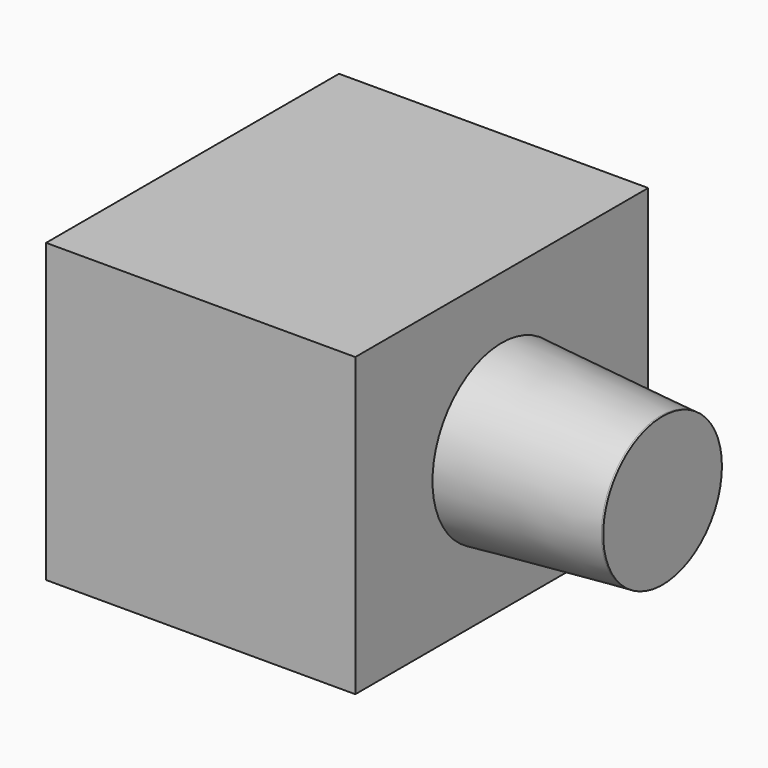
from build123d import *

# Parameters (mm, degrees)
SKETCH003_W   = 7.4
SKETCH003_H   = 6
PAD003_DEPTH  = 6.25
SKETCH004_R   = 1.5
PAD004_DEPTH  = 3.25
CHAMFER_ANGLE = 85.55
CHAMFER_SIZE  = 0.25


with BuildPart() as part:
    # Sketch003 → Pad003 (new body)
    with BuildSketch(Plane.YZ):
        with Locations((-4.647178, 8.71105)):
            Rectangle(SKETCH003_W, SKETCH003_H)
    extrude(amount=PAD003_DEPTH)

    # Sketch004 (on Face6 of Pad003) → Pad004 (join)
    with BuildSketch(Plane.YZ.offset(6.25)):
        with Locations((-4.647178, 8.71105)):
            Circle(SKETCH004_R)
    extrude(amount=PAD004_DEPTH)

    # Chamfer
    chamfer_edges = [part.edges().sort_by_distance(p)[0] for p in [
        (6.25, -6.147178, 8.71105),
    ]]
    chamfer_side = part.faces().sort_by_distance((6.25, -8.25191, 8.71105))[0]
    chamfer(chamfer_edges, length=CHAMFER_SIZE, angle=CHAMFER_ANGLE, reference=chamfer_side)


solid = part.part
